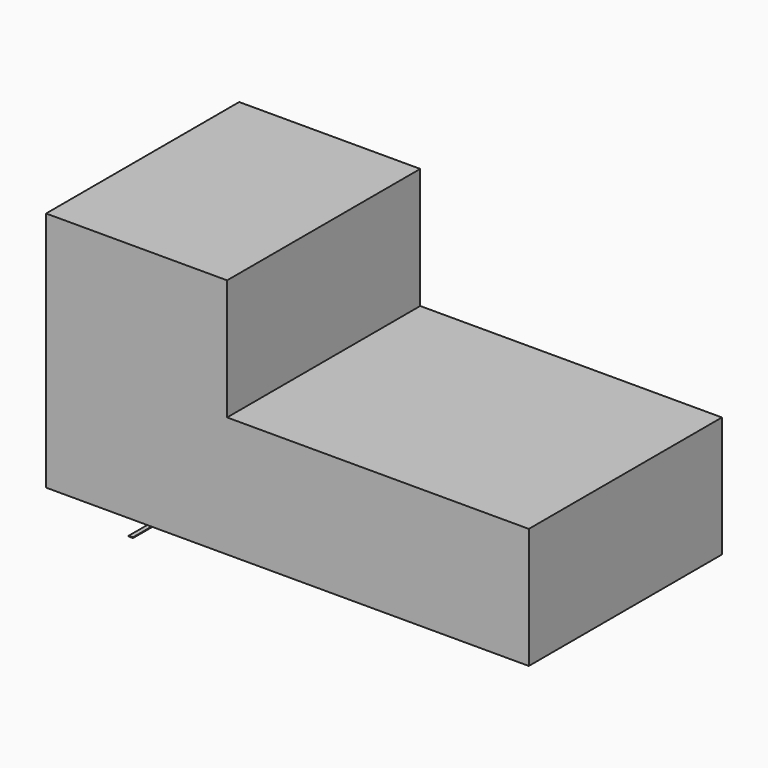
from build123d import *

# Parameters (mm, degrees)
F0_W     = 127
F0_H     = 50.8
F0_W_2   = 1.814287
F0_H_2   = 0.302381
F1_DEPTH = 101.6


with BuildPart() as f1:
    # F0 (on Front) → F1 (new body)
    with BuildSketch(Plane.XZ):
        Polygon((-76.2, 0), (0, 0), (0, 50.8), (0, 101.6), (-76.2, 101.6), align=None)
        with Locations((63.5, 25.4)):
            Rectangle(F0_W, F0_H)
        with Locations((-40.519048, -6.652381)):
            Rectangle(F0_W_2, F0_H_2)
    extrude(amount=F1_DEPTH)


solid = f1.part
